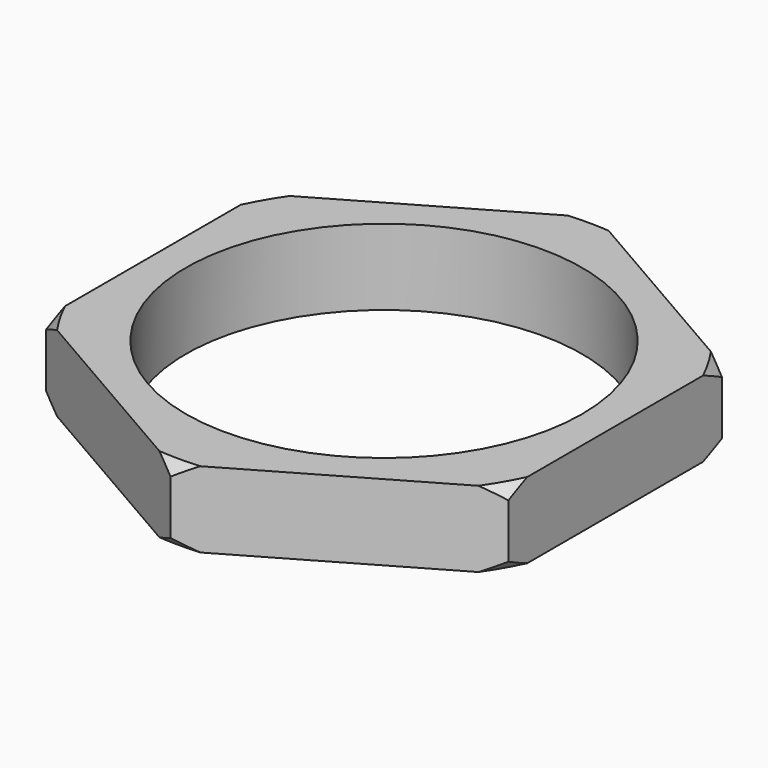
from build123d import *

# Parameters (mm, degrees)
SKETCH024_R          = 8.5
PAD002_DEPTH         = 2.3
CHAMFER004_SIZE      = 0.75
CHAMFER005_SIZE      = 0.75
SKETCH025_R          = 9.684824
POCKET019_DEPTH      = 2.301
POCKET019_DEPTH_BACK = 0.001
SKETCH026_R          = 6
POCKET020_DEPTH      = 0.001
POCKET020_DEPTH_BACK = 2.301


with BuildPart() as part:
    # Sketch024 → Pad002 (new body)
    with BuildSketch(Plane.XY):
        Circle(SKETCH024_R)
    extrude(amount=PAD002_DEPTH)

    # Chamfer004
    chamfer004_edges = [part.edges().sort_by_distance(p)[0] for p in [
        (-8.5, 0, 2.3),
    ]]
    chamfer(chamfer004_edges, length=CHAMFER004_SIZE)

    # Chamfer005
    chamfer005_edges = [part.edges().sort_by_distance(p)[0] for p in [
        (-8.5, 0, 0),
    ]]
    chamfer(chamfer005_edges, length=CHAMFER005_SIZE)

    # Sketch025 (on Face3 of Pad002) → Pocket019 (cut, two sides)
    with BuildSketch(Plane.XY.offset(2.3)) as pocket019_sk:
        Circle(SKETCH025_R)
        Polygon((0, 8.082904), (-7, 4.041452), (-7, -4.041452), (0, -8.082904), (7, -4.041452), (7, 4.041452), align=None, mode=Mode.SUBTRACT)
    extrude(amount=-POCKET019_DEPTH, mode=Mode.SUBTRACT)
    extrude(pocket019_sk.sketch, amount=POCKET019_DEPTH_BACK, mode=Mode.SUBTRACT)

    # Sketch026 → Pocket020 (cut, two sides)
    with BuildSketch(Plane.XY) as pocket020_sk:
        Circle(SKETCH026_R)
    extrude(amount=-POCKET020_DEPTH, mode=Mode.SUBTRACT)
    extrude(pocket020_sk.sketch, amount=POCKET020_DEPTH_BACK, mode=Mode.SUBTRACT)


solid = part.part
